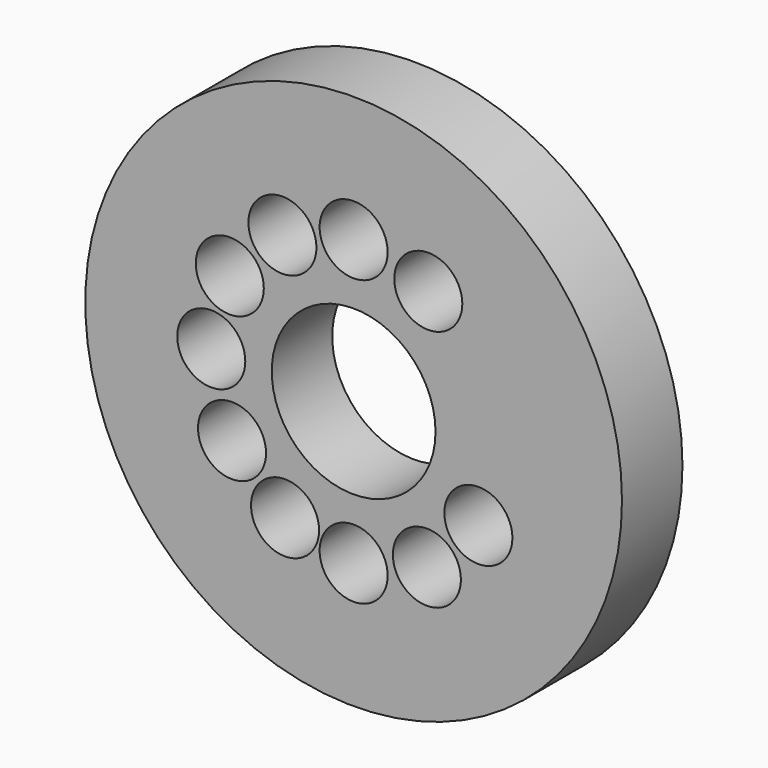
from build123d import *

# Parameters (mm, degrees)
F0_R     = 106.5
F0_R_2   = 75
F0_R_3   = 13.5
F0_R_4   = 37.5
F0_R_5   = 32.5
F1_DEPTH = 30


with BuildPart() as f1:
    # F0 (on Front) → F1 (new body)
    with BuildSketch(Plane.XZ):
        Circle(F0_R)
        Circle(F0_R_2, mode=Mode.SUBTRACT)
        Circle(F0_R_2)
        with Locations((-27.2225671893, -49.5094115863)):
            Circle(F0_R_3, mode=Mode.SUBTRACT)
        with Locations((-48.2611707722, -29.3787235205)):
            Circle(F0_R_3, mode=Mode.SUBTRACT)
        with Locations((0, -56.5)):
            Circle(F0_R_3, mode=Mode.SUBTRACT)
        with Locations((29.0680028111, -48.4489547108)):
            Circle(F0_R_3, mode=Mode.SUBTRACT)
        with Locations((49.5080817216, -27.2249856611)):
            Circle(F0_R_3, mode=Mode.SUBTRACT)
        with Locations((-56.5, 0)):
            Circle(F0_R_3, mode=Mode.SUBTRACT)
        with Locations((-49.1456532959, 27.8739082678)):
            Circle(F0_R_3, mode=Mode.SUBTRACT)
        with Locations((-28.2644325552, 48.9220998357)):
            Circle(F0_R_3, mode=Mode.SUBTRACT)
        Circle(F0_R_4, mode=Mode.SUBTRACT)
        with Locations((29.631335914, 48.1064853419)):
            Circle(F0_R_3, mode=Mode.SUBTRACT)
        with Locations((0, 56.5)):
            Circle(F0_R_3, mode=Mode.SUBTRACT)
        Circle(F0_R_4)
        Circle(F0_R_5, mode=Mode.SUBTRACT)
    extrude(amount=F1_DEPTH)


solid = f1.part
